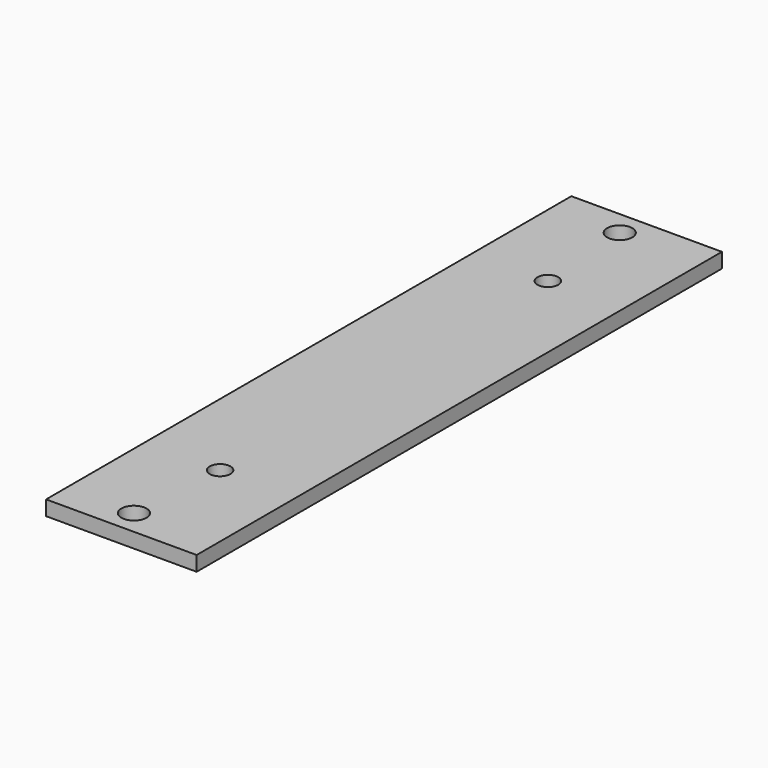
from build123d import *

# Parameters (mm, degrees)
SKETCH_W      = 30.5
SKETCH_H      = 133
PAD_DEPTH     = 3
SKETCH001_R   = 2.55
SKETCH001_R_2 = 2.1
POCKET_DEPTH  = 3.001


with BuildPart() as part:
    # Sketch → Pad (new body)
    with BuildSketch(Plane.XY):
        with Locations((-15.25, 66.5)):
            Rectangle(SKETCH_W, SKETCH_H)
    extrude(amount=PAD_DEPTH)

    # Sketch001 (on Face6 of Pad) → Pocket (cut, through all)
    with BuildSketch(Plane.XY.offset(3)):
        with Locations((-16.7, 5)):
            Circle(SKETCH001_R)
        with Locations((-16.7, 128)):
            Circle(SKETCH001_R)
        with Locations((-15.25, 25)):
            Circle(SKETCH001_R_2)
        with Locations((-15.25, 108)):
            Circle(SKETCH001_R_2)
    extrude(amount=-POCKET_DEPTH, mode=Mode.SUBTRACT)


solid = part.part
